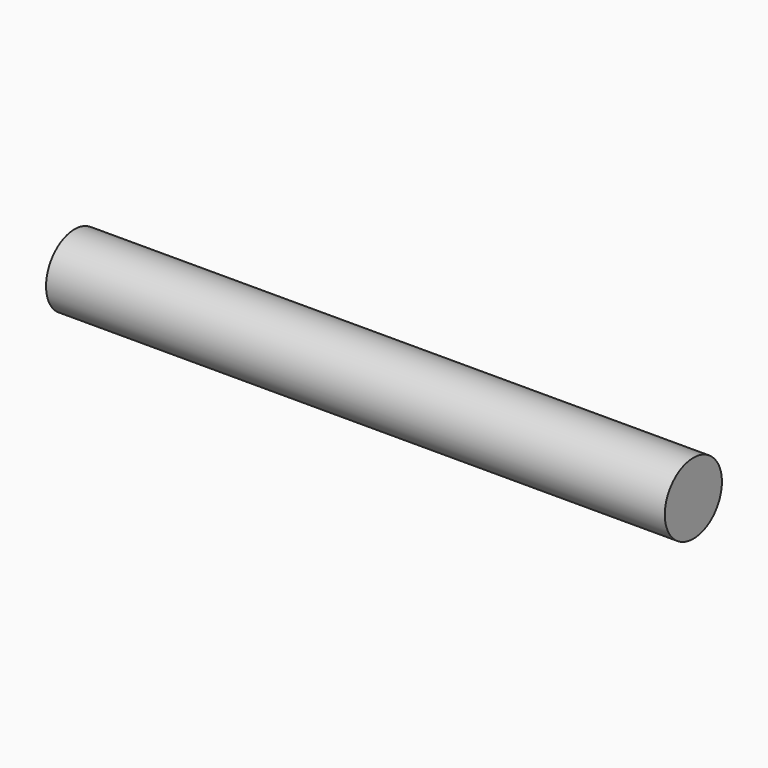
from build123d import *

# Parameters (mm, degrees)
SKETCH_R  = 1.5
PAD_DEPTH = 13


with BuildPart() as part:
    # Sketch → Pad (new body, symmetric)
    with BuildSketch(Plane.YZ):
        Circle(SKETCH_R)
    extrude(amount=PAD_DEPTH, both=True)


solid = part.part
